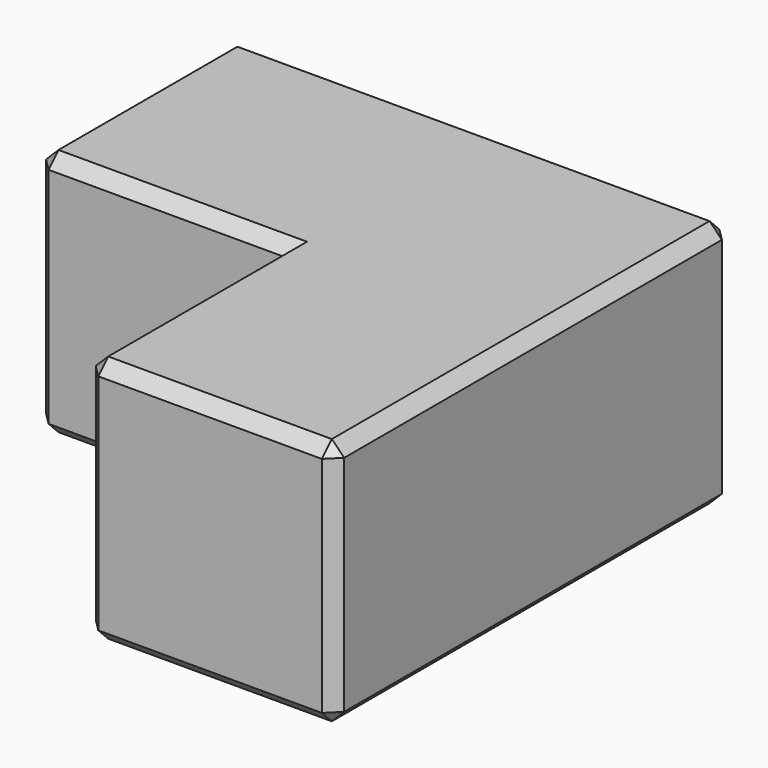
from build123d import *

# Parameters (mm, degrees)
F1_DEPTH = 20
F2_SIZE  = 1


with BuildPart() as f1:
    # F0 (on Top) → F1 (new body)
    with BuildSketch(Plane.XY):
        Polygon((20.665561, 19.565226), (-19.334439, 19.565226), (-19.334439, -0.434774), (0.665561, -0.434774), (0.665561, -20.434774), (20.665561, -20.434774), align=None)
    extrude(amount=F1_DEPTH)

    # F2
    f2_edges = [f1.edges().sort_by_distance(p)[0] for p in [
        (0.665561, -20.434774, 10),
        (20.665561, -20.434774, 10),
        (10.665561, -20.434774, 0),
        (10.665561, -20.434774, 20),
        (-19.334439, 19.565226, 10),
        (-19.334439, -0.434774, 10),
        (-19.334439, 9.565226, 0),
        (-19.334439, 9.565226, 20),
        (0.665561, 19.565226, 0),
        (-9.334439, -0.434774, 0),
        (0.665561, -10.434774, 0),
        (20.665561, -0.434774, 0),
        (20.665561, 19.565226, 10),
        (20.665561, -0.434774, 20),
        (0.665561, 19.565226, 20),
        (-9.334439, -0.434774, 20),
        (0.665561, -10.434774, 20),
    ]]
    chamfer(f2_edges, length=F2_SIZE)


solid = f1.part
